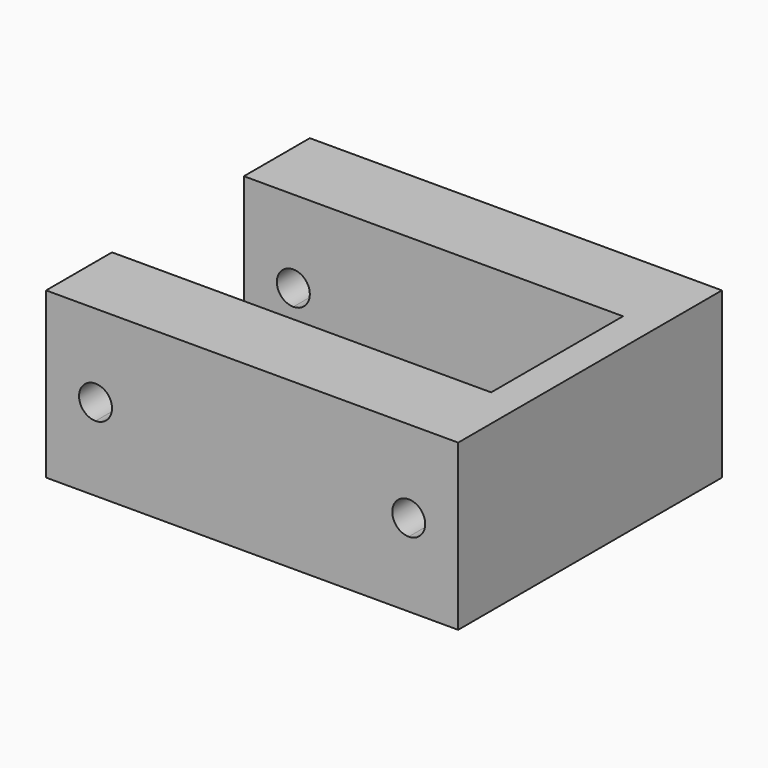
from build123d import *

# Parameters (mm, degrees)
F0_W     = 2
F0_H     = 10
F1_DEPTH = 10
F3_DEPTH = 20


with BuildPart() as f1:
    # F0 (on Top) → F1 (new body)
    with BuildSketch(Plane.XY):
        Polygon((-1, 5), (0, 5), (1, 5), (13, 5), (15, 5), (15, 10), (-10, 10), (-10, 5), align=None)
        Polygon((1, -5), (0, -5), (-1, -5), (-10, -5), (-10, -10), (15, -10), (15, -5), (13, -5), align=None)
        with Locations((14, 0)):
            Rectangle(F0_W, F0_H)
    extrude(amount=F1_DEPTH)

    # F2 (on face) → F3 (cut)
    with BuildSketch(Plane.XZ.offset(10)):
        with BuildLine():
            ThreePointArc((12, 4), (12.707107, 4.292893), (13, 5))
            ThreePointArc((13, 5), (11.292893, 5.707107), (12, 4))
        make_face()
        with BuildLine():
            ThreePointArc((-7, 4), (-6.292893, 4.292893), (-6, 5))
            ThreePointArc((-6, 5), (-7.707107, 5.707107), (-7, 4))
        make_face()
    extrude(amount=-F3_DEPTH, mode=Mode.SUBTRACT)


solid = f1.part
